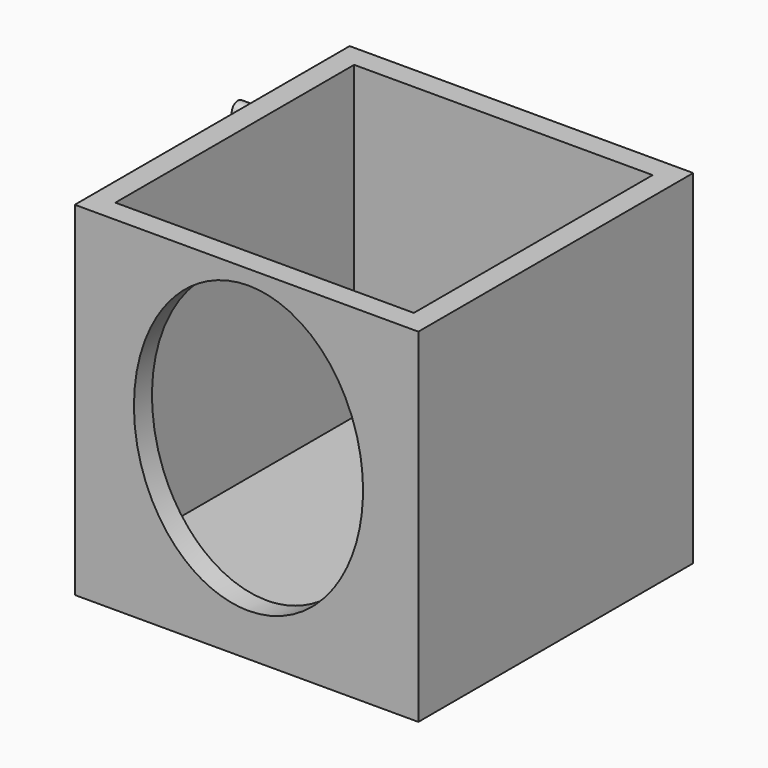
from build123d import *

# Parameters (mm, degrees)
F0_W     = 152.4
F0_H     = 152.4
F0_W_2   = 132.4
F0_H_2   = 132.4
F1_DEPTH = 152.4
F2_DEPTH = 15
F4_DEPTH = 25
F5_R     = 3.5
F6_DEPTH = 25.4


with BuildPart() as f1:
    # F0 (on Top) → F1 (new body)
    with BuildSketch(Plane.XY):
        with Locations((-0.835299, 32.648436)):
            Rectangle(F0_W, F0_H)
        with Locations((-0.835299, 32.648436)):
            Rectangle(F0_W_2, F0_H_2, mode=Mode.SUBTRACT)
    extrude(amount=F1_DEPTH)

    # F0 (on Top) → F2 (join)
    with BuildSketch(Plane.XY):
        with Locations((-0.835299, 32.648436)):
            Rectangle(F0_W_2, F0_H_2)
    extrude(amount=F2_DEPTH)

    # F3 (on face) → F4 (cut)
    with BuildSketch(Plane.XZ.offset(43.551564)):
        with BuildLine():
            add(Edge.make_bspline(
                [(0, 18.9), (87.988181, 18.9), (43.994091, 114.15), (0, 209.4), (-43.994091, 114.15), (-87.988181, 18.9), (0, 18.9)],
                knots=[0, 0, 0, 2.094395, 2.094395, 4.18879, 4.18879, 6.283185, 6.283185, 6.283185], degree=2, weights=[1, 0.5, 1, 0.5, 1, 0.5, 1]))
        make_face()
    extrude(amount=-F4_DEPTH, mode=Mode.SUBTRACT)

    # F5 (on face) → F6 (join)
    with BuildSketch(Plane(origin=(-77.035299, 0, 0), x_dir=(0, -1, 0), z_dir=(-1, 0, 0))):
        with Locations((-78.665249, 131.653592)):
            Circle(F5_R)
    extrude(amount=F6_DEPTH)


solid = f1.part
